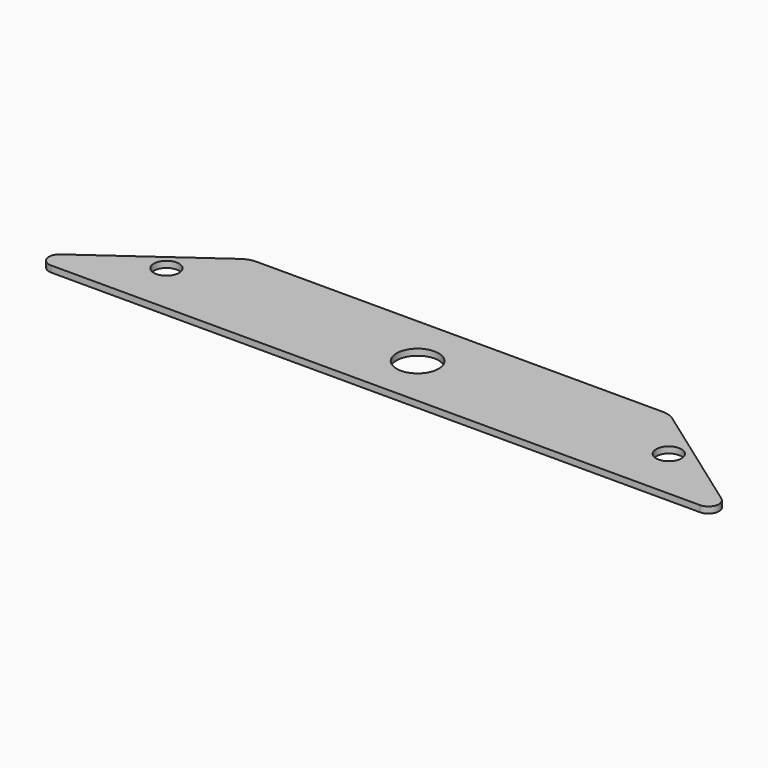
from build123d import *

# Parameters (mm, degrees)
F0_R     = 7.62
F0_R_2   = 12.7
F1_DEPTH = 3.81


with BuildPart() as f1:
    # F0 (on Top) → F1 (new body)
    with BuildSketch(Plane.XY):
        with BuildLine():
            Line((-196.085047, -13.515535), (0, -13.515535))
            Line((0, -13.515535), (196.085047, -13.515535))
            ThreePointArc((196.085047, -13.515535), (202.132123, -9.103412), (199.775909, -1.998328))
            Line((199.775909, -1.998328), (130.311819, 47.61888))
            ThreePointArc((130.311819, 47.61888), (126.805847, 49.378618), (122.930094, 49.984465))
            Line((122.930094, 49.984465), (0, 49.984465))
            Line((0, 49.984465), (-122.930094, 49.984465))
            ThreePointArc((-122.930094, 49.984465), (-126.805847, 49.378618), (-130.311819, 47.61888))
            Line((-130.311819, 47.61888), (-199.775909, -1.998328))
            ThreePointArc((-199.775909, -1.998328), (-202.132123, -9.103412), (-196.085047, -13.515535))
        make_face()
        with Locations((-151.785084, 18.234465)):
            Circle(F0_R, mode=Mode.SUBTRACT)
        with Locations((0, 18.234465)):
            Circle(F0_R_2, mode=Mode.SUBTRACT)
        with Locations((151.785084, 18.234465)):
            Circle(F0_R, mode=Mode.SUBTRACT)
    extrude(amount=F1_DEPTH)


solid = f1.part
